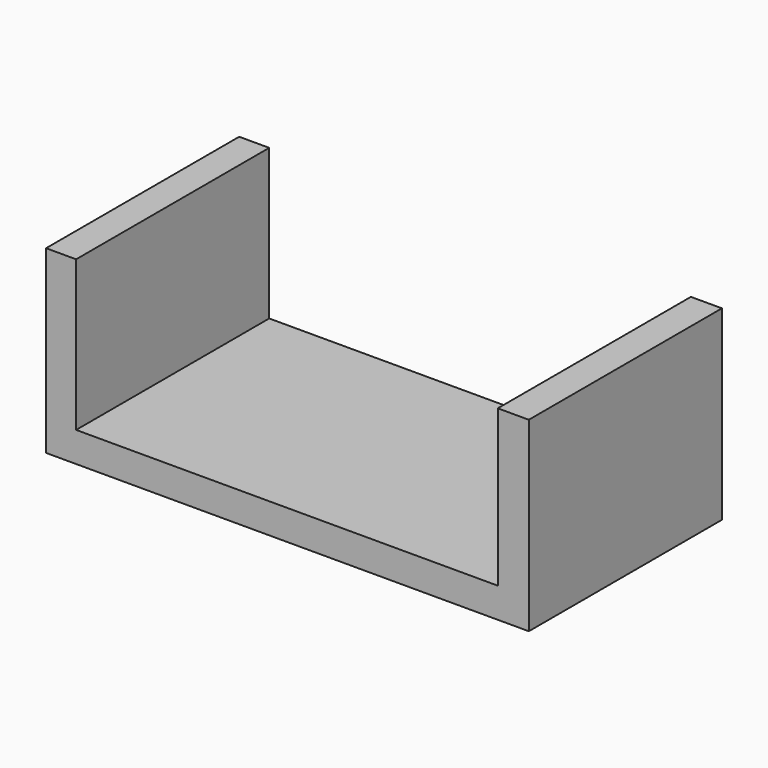
from build123d import *

# Parameters (mm, degrees)
F0_W     = 3.2655329616
F0_H     = 3.1612574508
F0_W_2   = 44.3732095876
F0_H_2   = 16.4319403187
F0_W_3   = 3.1612574508
F0_H_3   = 15.8062872542
F1_DEPTH = 12.7


with BuildPart() as f1:
    # F0 (on Front) → F1 (new body, symmetric)
    with BuildSketch(Plane.XZ):
        with Locations((11.3741590677, 1.5806287254)):
            Rectangle(F0_W, F0_H)
        with Locations((-12.4452122069, 1.5806287254)):
            Rectangle(F0_W_2, F0_H)
        with Locations((11.3741590677, 11.3772276102)):
            Rectangle(F0_W, F0_H_2)
        with Locations((-36.2124457261, 1.5806287254)):
            Rectangle(F0_W_3, F0_H)
        with Locations((-36.2124457261, 11.0644010779)):
            Rectangle(F0_W_3, F0_H_3)
    extrude(amount=F1_DEPTH, both=True)


solid = f1.part
